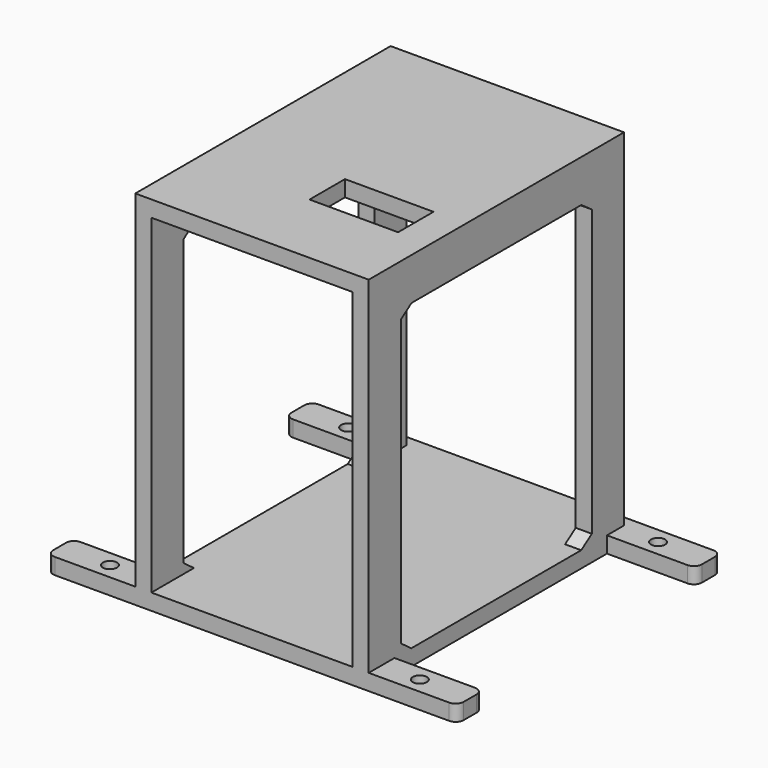
from build123d import *

# Parameters (mm, degrees)
F0_R      = 1.75
F1_DEPTH  = 4
F3_W      = 3
F3_H      = 79.3
F4_DEPTH  = 82
F5_DEPTH  = 2
F6_DEPTH  = 2
F7_DEPTH  = 3
F8_DEPTH  = 3
F9_R      = 2
F12_DEPTH = 80.001
F14_W     = 58
F14_H     = 79.3
F14_W_2   = 22
F14_H_2   = 11
F15_DEPTH = 4


with BuildPart() as f1:
    # F0 (on Top) → F1 (new body)
    with BuildSketch(Plane.XY):
        Polygon((71, 89.45), (19, 89.45), (-6, 89.45), (-6, 81.45), (19, 81.45), (19, 15.45), (-6, 15.45), (-6, 7.45), (19, 7.45), (71, 7.45), (96, 7.45), (96, 15.45), (71, 15.45), (71, 81.45), (96, 81.45), (96, 89.45), align=None)
        with Locations((6.5, 11.45)):
            Circle(F0_R, mode=Mode.SUBTRACT)
        with Locations((83.5, 11.45)):
            Circle(F0_R, mode=Mode.SUBTRACT)
        with Locations((6.5, 85.45)):
            Circle(F0_R, mode=Mode.SUBTRACT)
        with Locations((83.5, 85.45)):
            Circle(F0_R, mode=Mode.SUBTRACT)
    extrude(amount=F1_DEPTH)

    # F3 (on offset) → F4 (join)
    with BuildSketch(Plane.XY.offset(4)):
        with Locations((20.5, 47.1)):
            Rectangle(F3_W, F3_H)
        with Locations((69.5, 47.1)):
            Rectangle(F3_W, F3_H)
    extrude(amount=F4_DEPTH)

    # F5 (cut): a face of the model
    f5_faces = [f1.faces().sort_by_distance(p)[0] for p in [
        (22, 47.1, 45),
    ]]
    extrude(f5_faces, amount=-F5_DEPTH, mode=Mode.SUBTRACT)

    # F6 (cut): a face of the model
    f6_faces = [f1.faces().sort_by_distance(p)[0] for p in [
        (68, 47.1, 45),
    ]]
    extrude(f6_faces, amount=-F6_DEPTH, mode=Mode.SUBTRACT)

    # F7 (add): a face of the model
    f7_faces = [f1.faces().sort_by_distance(p)[0] for p in [
        (71, 47.1526704697, 43.3223480034),
    ]]
    extrude(f7_faces, amount=F7_DEPTH)

    # F8 (add): a face of the model
    f8_faces = [f1.faces().sort_by_distance(p)[0] for p in [
        (19, 47.1526704697, 43.3223480034),
    ]]
    extrude(f8_faces, amount=F8_DEPTH)

    # F9
    f9_edges = [f1.edges().sort_by_distance(p)[0] for p in [
        (96, 81.45, 2),
        (96, 89.45, 2),
        (96, 15.45, 2),
        (96, 7.45, 2),
        (-6, 7.45, 2),
        (-6, 89.45, 2),
        (-6, 81.45, 2),
        (-6, 15.45, 2),
    ]]
    fillet(f9_edges, radius=F9_R)

    # F11 (on offset) → F12 (cut, through all)
    with BuildSketch(Plane.YZ.offset(74)):
        Polygon((73.4880973649, 79.5), (20.7553358046, 79.5), (17.45, 77.2472782643), (17.45, 6.3772784262), (20.6669158031, 4), (73.4427470628, 4), (76.75, 6.2499062224), (76.75, 77.1848345202), align=None)
    extrude(amount=-F12_DEPTH, mode=Mode.SUBTRACT)

    # F14 (on offset) → F15 (join)
    with BuildSketch(Plane.XY.offset(86)):
        with Locations((45, 47.1)):
            Rectangle(F14_W, F14_H)
        with Locations((55, 32.0759117305)):
            Rectangle(F14_W_2, F14_H_2, mode=Mode.SUBTRACT)
    extrude(amount=F15_DEPTH)


solid = f1.part
